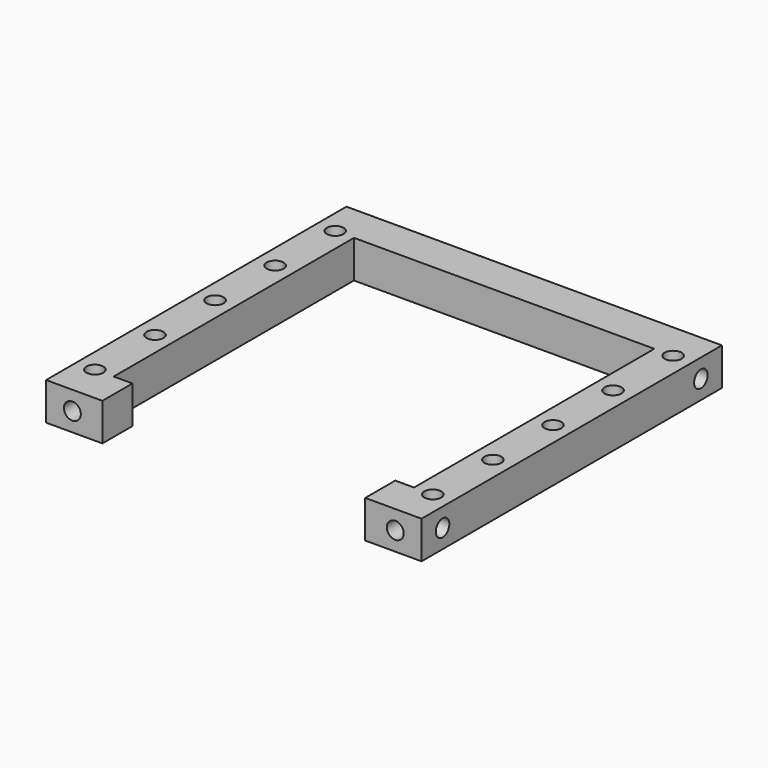
from build123d import *

# Parameters (mm, degrees)
SKETCH_W              = 100
SKETCH_H              = 100
SKETCH_W_2            = 80
SKETCH_H_2            = 80
PAD_DEPTH             = 10
SKETCH002_R           = 2.25
POCKET_DEPTH          = 6
SKETCH070_R           = 2.25
POCKET044_DEPTH       = 6
POLARPATTERN_COUNT    = 4
SKETCH071_R           = 2.25
POCKET045_DEPTH       = 6
POLARPATTERN001_COUNT = 4
SKETCH072_R           = 2.25
POCKET046_DEPTH       = 6
SKETCH097_W           = 70
SKETCH097_H           = 10
POCKET060_DEPTH       = 10


with BuildPart() as part:
    # Sketch → Pad (new body)
    with BuildSketch(Plane.XY):
        Rectangle(SKETCH_W, SKETCH_H)
        Rectangle(SKETCH_W_2, SKETCH_H_2, mode=Mode.SUBTRACT)
    extrude(amount=PAD_DEPTH)

    # Sketch002 (on Face10 of Pad) → Pocket (cut)
    with BuildSketch(Plane.XY.offset(10)):
        with Locations((-45, 40)):
            Circle(SKETCH002_R)
        with Locations((-45, 20)):
            Circle(SKETCH002_R)
        with Locations((-45, 0)):
            Circle(SKETCH002_R)
        with Locations((-45, -20)):
            Circle(SKETCH002_R)
        with Locations((-45, -40)):
            Circle(SKETCH002_R)
    pocket = extrude(amount=-POCKET_DEPTH, mode=Mode.SUBTRACT)

    # Mirrored: Pocket across Sketch002 V_Axis
    add(pocket.mirror(Plane(origin=(0, 0, 10), x_dir=(0, 0, 1), z_dir=(1, 0, 0))), mode=Mode.SUBTRACT)

    # Sketch070 (on Face6 of Mirrored) → Pocket044 (cut)
    with BuildSketch(Plane.XZ.offset(50)):
        with Locations((-43, 5)):
            Circle(SKETCH070_R)
    pocket044 = extrude(amount=-POCKET044_DEPTH, mode=Mode.SUBTRACT)

    # PolarPattern: Pocket044 ×4 about axis
    polarpattern_axis = Axis((0, 0, 0), (0, 0, 1))
    for i in range(1, POLARPATTERN_COUNT):
        add(pocket044.rotate(polarpattern_axis, i * 360 / POLARPATTERN_COUNT), mode=Mode.SUBTRACT)

    # Sketch071 (on Face2 of PolarPattern) → Pocket045 (cut)
    with BuildSketch(Plane(origin=(-50, 0, 0), x_dir=(0, -1, 0), z_dir=(-1, 0, 0))):
        with Locations((43, 5)):
            Circle(SKETCH071_R)
    pocket045 = extrude(amount=-POCKET045_DEPTH, mode=Mode.SUBTRACT)

    # PolarPattern001: Pocket045 ×4 about axis
    polarpattern001_axis = Axis((0, 0, 0), (0, 0, 1))
    for i in range(1, POLARPATTERN001_COUNT):
        add(pocket045.rotate(polarpattern001_axis, i * 360 / POLARPATTERN001_COUNT), mode=Mode.SUBTRACT)

    # Sketch072 (on Face1 of PolarPattern001) → Pocket046 (cut)
    with BuildSketch(Plane(origin=(0, 50, 0), x_dir=(-1, 0, 0), z_dir=(0, 1, 0))):
        with Locations((-15, 5)):
            Circle(SKETCH072_R)
    pocket046 = extrude(amount=-POCKET046_DEPTH, mode=Mode.SUBTRACT)

    # Mirrored001: Pocket046 across Sketch072 V_Axis
    add(pocket046.mirror(Plane(origin=(0, 50, 0), x_dir=(0, 1, 0), z_dir=(-1, 0, 0))), mode=Mode.SUBTRACT)

    # Sketch097 (on Face4 of Mirrored001) → Pocket060 (cut)
    with BuildSketch(Plane.XY.offset(10)):
        with Locations((0, -45)):
            Rectangle(SKETCH097_W, SKETCH097_H)
    extrude(amount=-POCKET060_DEPTH, mode=Mode.SUBTRACT)


with BuildPart() as part_1:
    # Body placement: moved
    add(part.part.moved(Location((0, 0, 100))))


solid = part_1.part
